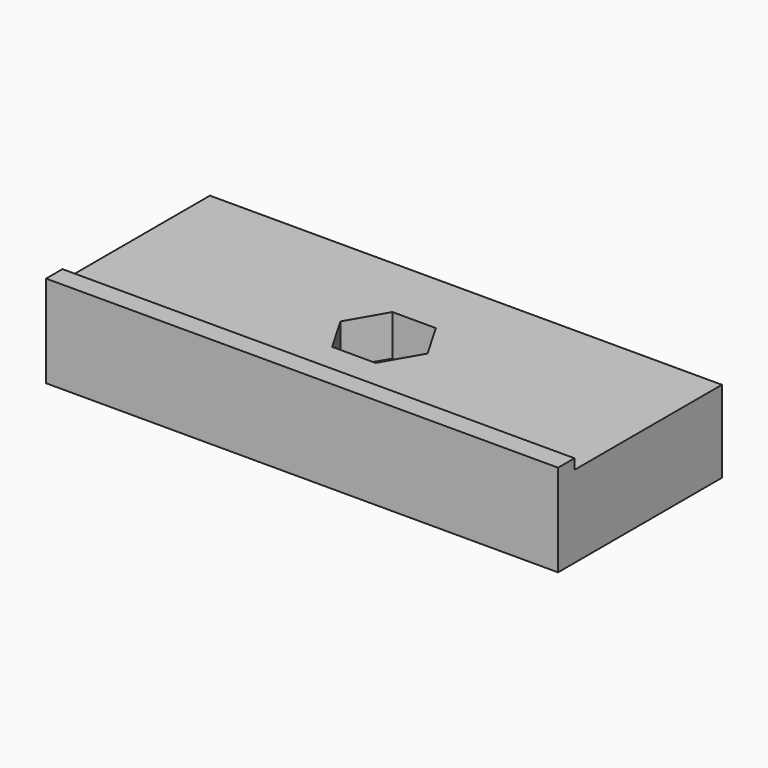
from build123d import *

# Parameters (mm, degrees)
SKETCH_W        = 50
SKETCH_H        = 20
PAD_DEPTH       = 9
SKETCH001_R     = 2.25
POCKET_DEPTH    = 9
POCKET001_DEPTH = 5
SKETCH003_W     = 50
SKETCH003_H     = 18
POCKET002_DEPTH = 1


with BuildPart() as part:
    # Sketch → Pad (new body)
    with BuildSketch(Plane.XY):
        Rectangle(SKETCH_W, SKETCH_H)
    extrude(amount=PAD_DEPTH)

    # Sketch001 (on DatumPlane) → Pocket (cut)
    with BuildSketch(Plane.XY.offset(9)):
        Circle(SKETCH001_R)
    extrude(amount=-POCKET_DEPTH, mode=Mode.SUBTRACT)

    # Sketch002 (on DatumPlane) → Pocket001 (cut)
    with BuildSketch(Plane.XY.offset(9)):
        Polygon((2.125, -3.680608), (4.25, 0), (2.125, 3.680608), (-2.125, 3.680608), (-4.25, 0), (-2.125, -3.680608), align=None)
    extrude(amount=-POCKET001_DEPTH, mode=Mode.SUBTRACT)

    # Sketch003 (on DatumPlane) → Pocket002 (cut)
    with BuildSketch(Plane.XY.offset(9)):
        with Locations((0, 1)):
            Rectangle(SKETCH003_W, SKETCH003_H)
    extrude(amount=-POCKET002_DEPTH, mode=Mode.SUBTRACT)


solid = part.part
